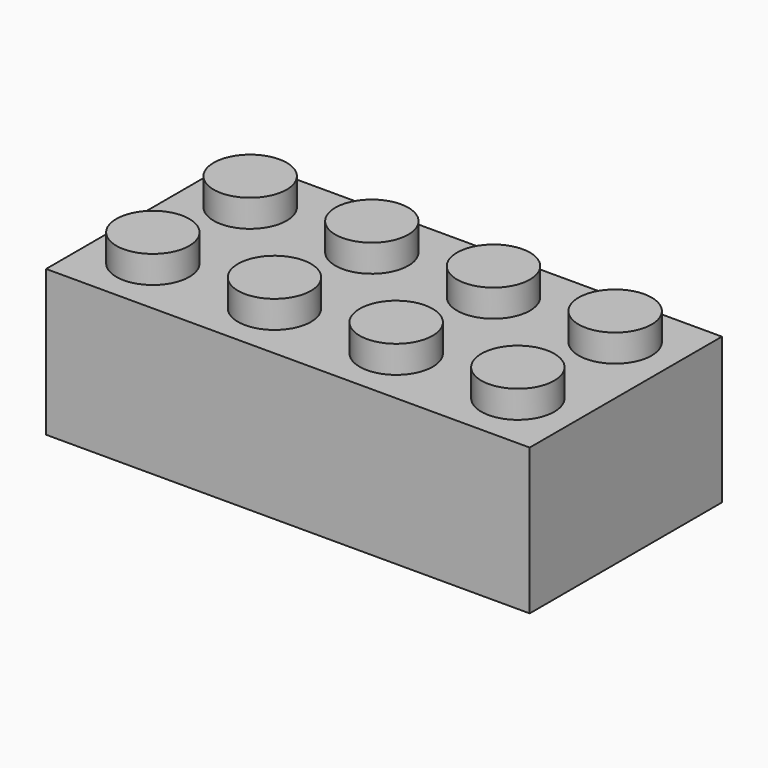
from build123d import *

# Parameters (mm, degrees)
F0_W     = 31.8
F0_H     = 15.8
F1_DEPTH = 9.6
F2_R     = 2.4
F3_DEPTH = 1.8
F4_W     = 29.4
F4_H     = 13.4
F5_DEPTH = 8.4
F5_TAPER = 1.5
F6_R     = 1.3
F7_DEPTH = 1.7
F8_R     = 3.25
F8_R_2   = 2.4
F9_DEPTH = 8.4


with BuildPart() as f1:
    # F0 (on Top) → F1 (new body)
    with BuildSketch(Plane.XY):
        Rectangle(F0_W, F0_H)
    extrude(amount=F1_DEPTH)

    # F2 (on face) → F3 (join)
    with BuildSketch(Plane.XY.offset(9.6)):
        with Locations((-12, 4)):
            Circle(F2_R)
        with Locations((-12, -4)):
            Circle(F2_R)
        with Locations((-4, 4)):
            Circle(F2_R)
        with Locations((-4, -4)):
            Circle(F2_R)
        with Locations((4, 4)):
            Circle(F2_R)
        with Locations((4, -4)):
            Circle(F2_R)
        with Locations((12, 4)):
            Circle(F2_R)
        with Locations((12, -4)):
            Circle(F2_R)
    extrude(amount=F3_DEPTH)

    # F4 (on face) → F5 (cut)
    with BuildSketch(Plane(origin=(0, 0, 0), x_dir=(1, 0, 0), z_dir=(0, 0, -1))):
        Rectangle(F4_W, F4_H)
    extrude(amount=-F5_DEPTH, taper=F5_TAPER, mode=Mode.SUBTRACT)

    # F6 (on face) → F7 (cut)
    with BuildSketch(Plane(origin=(0, 0, 8.4), x_dir=(1, 0, 0), z_dir=(0, 0, -1))):
        with Locations((-12, 4)):
            Circle(F6_R)
        with Locations((-4, 4)):
            Circle(F6_R)
        with Locations((4, 4)):
            Circle(F6_R)
        with Locations((12, 4)):
            Circle(F6_R)
        with Locations((12, -4)):
            Circle(F6_R)
        with Locations((4, -4)):
            Circle(F6_R)
        with Locations((-4, -4)):
            Circle(F6_R)
        with Locations((-12, -4)):
            Circle(F6_R)
    extrude(amount=-F7_DEPTH, mode=Mode.SUBTRACT)

    # F8 (on face) → F9 (join, through all)
    with BuildSketch(Plane(origin=(0, 0, 8.4), x_dir=(1, 0, 0), z_dir=(0, 0, -1))):
        Circle(F8_R)
        Circle(F8_R_2, mode=Mode.SUBTRACT)
        with Locations((8, 0)):
            Circle(F8_R)
        with Locations((8, 0)):
            Circle(F8_R_2, mode=Mode.SUBTRACT)
        with Locations((-8, 0)):
            Circle(F8_R)
        with Locations((-8, 0)):
            Circle(F8_R_2, mode=Mode.SUBTRACT)
    extrude(amount=F9_DEPTH)


solid = f1.part
